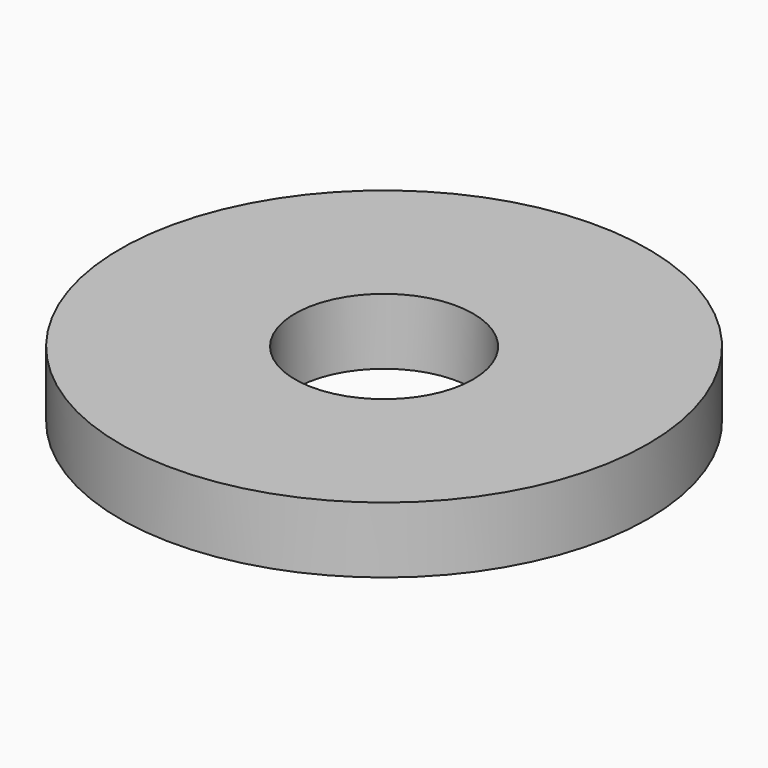
from build123d import *

# Parameters (mm, degrees)
SKETCH_R   = 40
SKETCH_R_2 = 13.5
PAD_DEPTH  = 10


with BuildPart() as part:
    # Sketch → Pad (new body)
    with BuildSketch(Plane.XY):
        Circle(SKETCH_R)
        Circle(SKETCH_R_2, mode=Mode.SUBTRACT)
    extrude(amount=PAD_DEPTH)


solid = part.part
